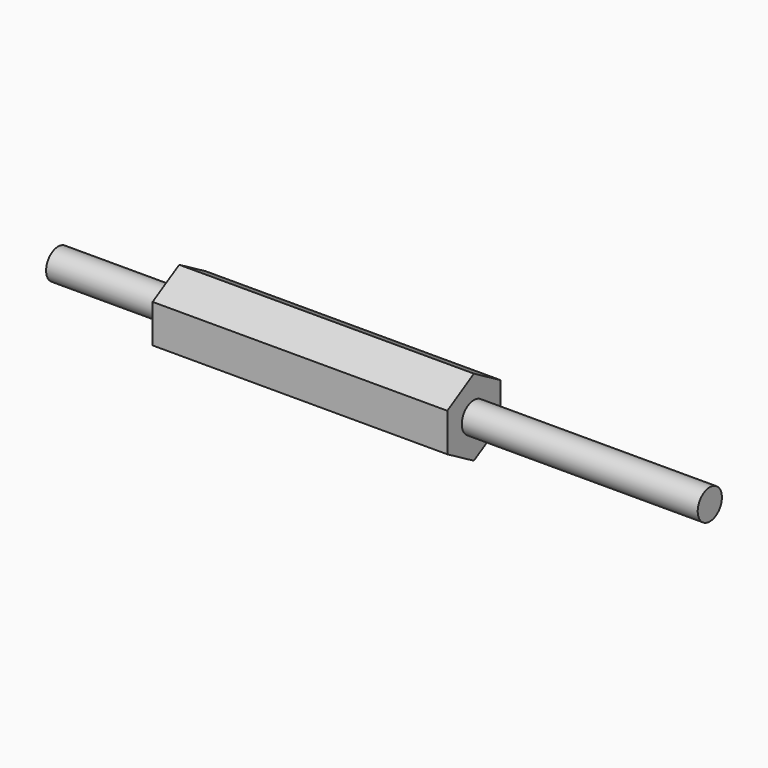
from build123d import *

# Parameters (mm, degrees)
F1_DEPTH = 77.3176
F2_R     = 3.9624
F3_DEPTH = 31.75
F4_R     = 3.96875
F5_DEPTH = 61.8998


with BuildPart() as f1:
    # F0 (on Right) → F1 (new body)
    with BuildSketch(Plane.YZ):
        Polygon((8.7122, -5.029991), (8.7122, 5.029991), (0, 10.059982), (-8.7122, 5.029991), (-8.7122, -5.029991), (0, -10.059982), align=None)
    extrude(amount=-F1_DEPTH)

    # F2 (on face) → F3 (join)
    with BuildSketch(Plane(origin=(-77.3176, 0, 0), x_dir=(0, -1, 0), z_dir=(-1, 0, 0))):
        Circle(F2_R)
    extrude(amount=F3_DEPTH)

    # F4 (on face) → F5 (join)
    with BuildSketch(Plane.YZ):
        Circle(F4_R)
    extrude(amount=F5_DEPTH)


solid = f1.part
